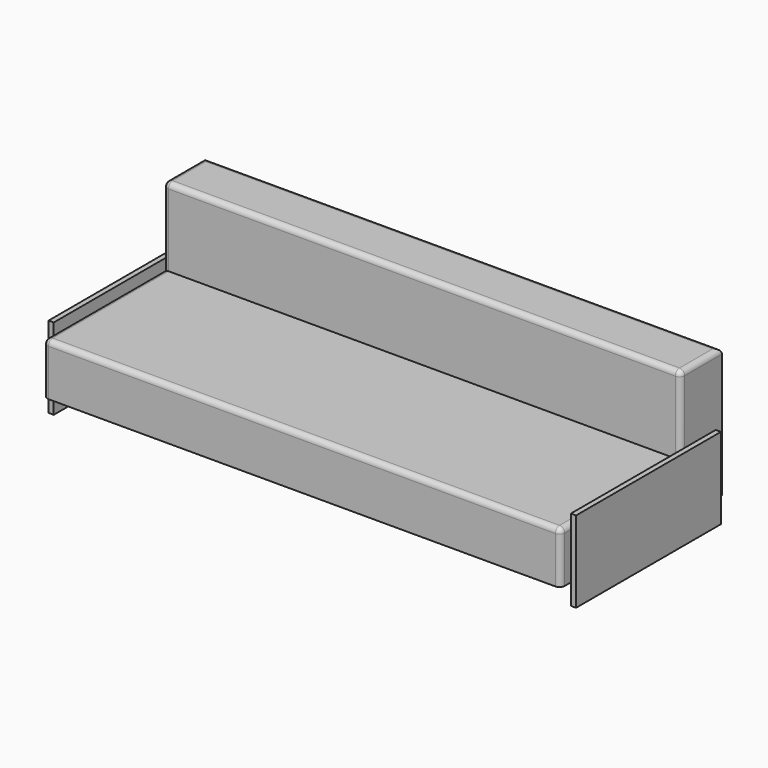
from build123d import *

# Parameters (mm, degrees)
F0_W     = 5080
F0_H     = 1524
F1_DEPTH = 508
F2_R     = 50.8
F3_W     = 1778
F3_H     = 798.7206512661
F4_DEPTH = 50.8
F6_W     = 508
F6_H     = 1270
F7_DEPTH = 5080
F8_R     = 50.8


with BuildPart() as f1:
    # F0 (on Top) → F1 (new body)
    with BuildSketch(Plane.XY):
        Rectangle(F0_W, F0_H)
    extrude(amount=F1_DEPTH)

    # F2
    f2_edges = [f1.edges().sort_by_distance(p)[0] for p in [
        (-2540, 762, 254),
        (-2540, -762, 254),
        (2540, -762, 254),
        (2540, 762, 254),
        (2540, 0, 508),
        (0, -762, 508),
        (0, 762, 508),
        (-2540, 0, 508),
    ]]
    fillet(f2_edges, radius=F2_R)



with BuildPart() as f4:
    # F3 (on face) → F4 (new body)
    with BuildSketch(Plane(origin=(-2540, 0, 0), x_dir=(0, -1, 0), z_dir=(-1, 0, 0))):
        with Locations((-254, 196.1603256331)):
            Rectangle(F3_W, F3_H)
    extrude(amount=F4_DEPTH)


with BuildPart() as f1_1:
    add(f1.part)

    add(f4.part)  # F5 merges F4
    # F5: F4 across plane
    add(f4.part.mirror(Plane.YZ))


with BuildPart() as f7:
    # F6 (on face) → F7 (new body)
    with BuildSketch(Plane.YZ.offset(-2540)):
        with Locations((965.2, 635)):
            Rectangle(F6_W, F6_H)
    extrude(amount=F7_DEPTH)

    # F8
    f8_edges = [f7.edges().sort_by_distance(p)[0] for p in [
        (0, 711.2, 1270),
        (0, 1219.2, 1270),
        (2540, 965.2, 1270),
        (-2540, 965.2, 1270),
        (-2540, 711.2, 635),
        (2540, 711.2, 635),
    ]]
    fillet(f8_edges, radius=F8_R)


solid = Compound([f1_1.part, f7.part])
